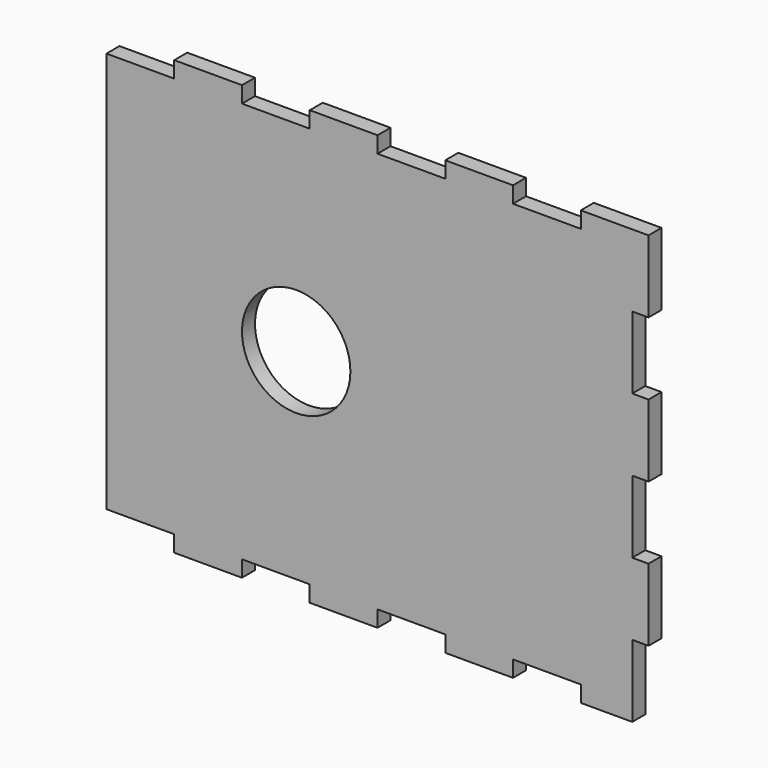
from build123d import *

# Parameters (mm, degrees)
F0_R     = 10
F1_DEPTH = 3


with BuildPart() as f1:
    # F0 (on Front) → F1 (new body)
    with BuildSketch(Plane.XZ):
        Polygon((37.5, -40), (47, -40), (47, -26.6665), (50, -26.6665), (50, -13.3332), (47, -13.3332), (47, 0.0001), (50, 0.0001), (50, 13.3334), (47, 13.3334), (47, 26.6667), (50, 26.6667), (50, 40), (37.5, 40), (37.5, 37), (25, 37), (25, 40), (12.5, 40), (12.5, 37), (0, 37), (0, 40), (-12.5, 40), (-12.5, 37), (-25, 37), (-25, 40), (-37.5, 40), (-37.5, 37), (-50, 37), (-50, -37), (-37.5, -37), (-37.5, -40), (-25, -40), (-25, -37), (-12.5, -37), (-12.5, -40), (0, -40), (0, -37), (12.5, -37), (12.5, -40), (25, -40), (25, -37), (37.5, -37), align=None)
        with Locations((-15, 0)):
            Circle(F0_R, mode=Mode.SUBTRACT)
    extrude(amount=F1_DEPTH)


solid = f1.part
